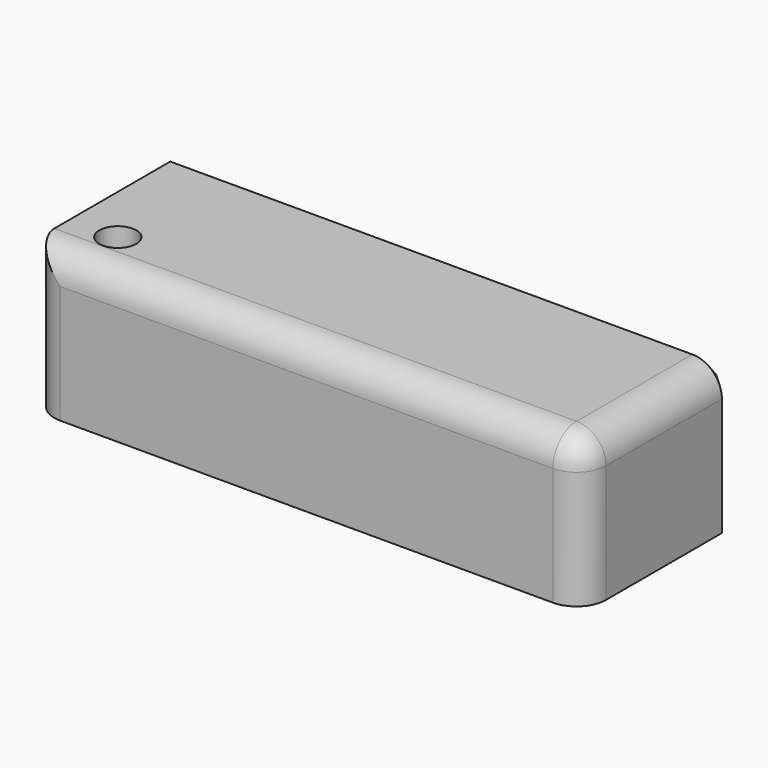
from build123d import *

# Parameters (mm, degrees)
F0_W     = 94.914917
F0_H     = 35.086341
F1_DEPTH = 25.4
F2_R     = 5.08
F3_SIZE  = 5.08
F5_D     = 6.35


with BuildPart() as f1:
    # F0 (on Top) → F1 (new body)
    with BuildSketch(Plane.XY):
        with Locations((-40.582946, -17.54317)):
            Rectangle(F0_W, F0_H)
    extrude(amount=F1_DEPTH)

    # F2
    f2_edges = [f1.edges().sort_by_distance(p)[0] for p in [
        (-40.582946, -35.086341, 25.4),
        (6.874513, -17.543171, 25.4),
        (6.874513, -35.086341, 12.7),
        (-88.040404, -35.086341, 12.7),
    ]]
    fillet(f2_edges, radius=F2_R)

    # F3
    f3_edges = [f1.edges().sort_by_distance(p)[0] for p in [
        (-43.122946, 0, 25.4),
    ]]
    chamfer(f3_edges, length=F3_SIZE)

    # F5 (through all)
    with Locations(Plane(origin=(0, 0, 0), x_dir=(1, 0, 0), z_dir=(0, 0, -1))):
        with Locations((-79.811066, 26.63902)):
            Hole(F5_D / 2)


solid = f1.part
